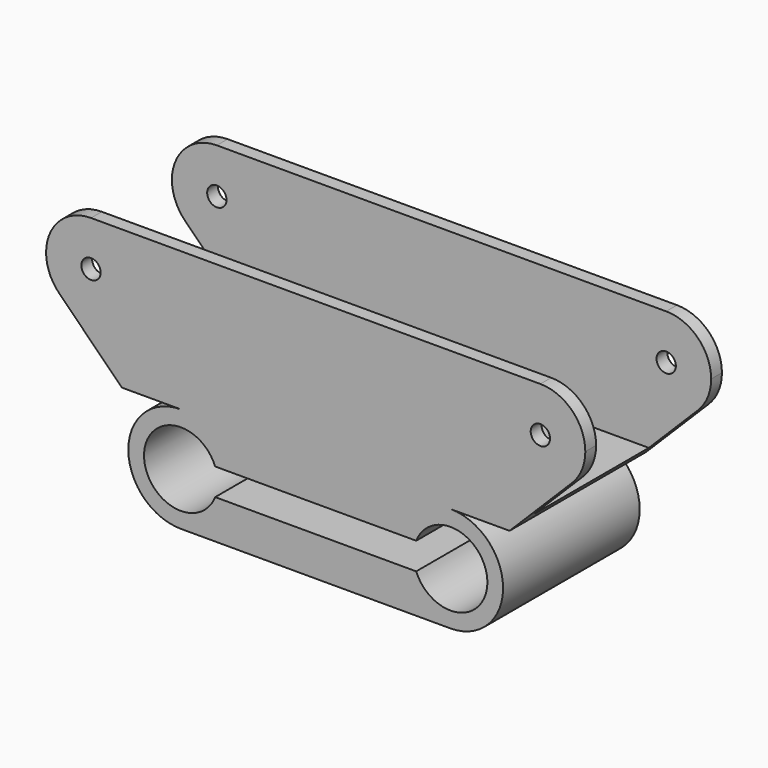
from build123d import *

# Parameters (mm, degrees)
F2_DEPTH  = 60
F4_DEPTH  = 19
F0_R      = 2.15
F5_DEPTH  = 30.3
F6_R      = 10
F7_R      = 3.3
F8_DEPTH  = 29.5
F10_DEPTH = 6
F9_W      = 12
F9_H      = 8
F11_DEPTH = 3
F13_DEPTH = 25


with BuildPart() as f2:
    # F1 (on Right) → F2 (new body, symmetric)
    with BuildSketch(Plane.YZ):
        Polygon((16, 0), (-16, 0), (-16, 28), (-19, 28), (-19, -3), (19, -3), (19, 28), (16, 28), align=None)
    extrude(amount=F2_DEPTH, both=True)

    # F3 (on Front) → F4 (join, symmetric)
    with BuildSketch(Plane.XZ):
        with BuildLine():
            Line((0, -3), (-30, -3))
            ThreePointArc((-30, -3), (-41.7, -14.7), (-30, -26.4))
            Line((-30, -26.4), (0, -26.4))
            Line((0, -26.4), (30, -26.4))
            ThreePointArc((30, -26.4), (41.7, -14.7), (30, -3))
            Line((30, -3), (0, -3))
        make_face()
        with BuildLine():
            ThreePointArc((-22.368486, -17.7), (-38.2, -14.7), (-22.368486, -11.7))
            Line((-22.368486, -11.7), (0, -11.7))
            Line((0, -11.7), (22.368486, -11.7))
            ThreePointArc((22.368486, -11.7), (38.2, -14.7), (22.368486, -17.7))
            Line((22.368486, -17.7), (0, -17.7))
            Line((0, -17.7), (-22.368486, -17.7))
        make_face(mode=Mode.SUBTRACT)
    extrude(amount=F4_DEPTH, both=True)

    # F0 (on Front) → F5 (cut, symmetric)
    with BuildSketch(Plane.XZ):
        with Locations((-50, 18)):
            Circle(F0_R)
        with Locations((50, 18)):
            Circle(F0_R)
    extrude(amount=F5_DEPTH, both=True, mode=Mode.SUBTRACT)

    # F6
    f6_edges = [f2.edges().sort_by_distance(p)[0] for p in [
        (-60, -17.5, 28),
        (-60, 17.5, 28),
        (60, 17.5, 28),
        (60, -17.5, 28),
    ]]
    fillet(f6_edges, radius=F6_R)

    # F7 (on Top) → F8 (cut, symmetric)
    with BuildSketch(Plane.XY):
        Circle(F7_R)
    extrude(amount=F8_DEPTH, both=True, mode=Mode.SUBTRACT)

    # F9 (on Top) → F10 (cut)
    with BuildSketch(Plane.XY):
        Polygon((5.5, -3.175426), (5.5, 3.175426), (0, 6.350853), (-5.5, 3.175426), (-5.5, -3.175426), (0, -6.350853), align=None)
    extrude(amount=-F10_DEPTH, mode=Mode.SUBTRACT)

    # F9 (on Top) → F11 (cut)
    with BuildSketch(Plane.XY):
        with Locations((-28, 0)):
            Rectangle(F9_W, F9_H)
        with Locations((28, 0)):
            Rectangle(F9_W, F9_H)
    extrude(amount=-F11_DEPTH, mode=Mode.SUBTRACT)

    # F12 (on Front) → F13 (cut, symmetric)
    with BuildSketch(Plane.XZ):
        with BuildLine():
            Line((56.966549, 10.825936), (43.140613, -3))
            Line((43.140613, -3), (66.425517, -3))
            Line((66.425517, -3), (66.425517, 22.940923))
            Line((66.425517, 22.940923), (58.694095, 22.940923))
            ThreePointArc((58.694095, 22.940923), (59.899857, 16.588322), (56.966549, 10.825936))
        make_face()
        with BuildLine():
            ThreePointArc((-56.966549, 10.825936), (-59.899857, 16.588322), (-58.694095, 22.940923))
            Line((-58.694095, 22.940923), (-66.425517, 22.940923))
            Line((-66.425517, 22.940923), (-66.425517, -3))
            Line((-66.425517, -3), (-43.140613, -3))
            Line((-43.140613, -3), (-56.966549, 10.825936))
        make_face()
    extrude(amount=F13_DEPTH, both=True, mode=Mode.SUBTRACT)


solid = f2.part
